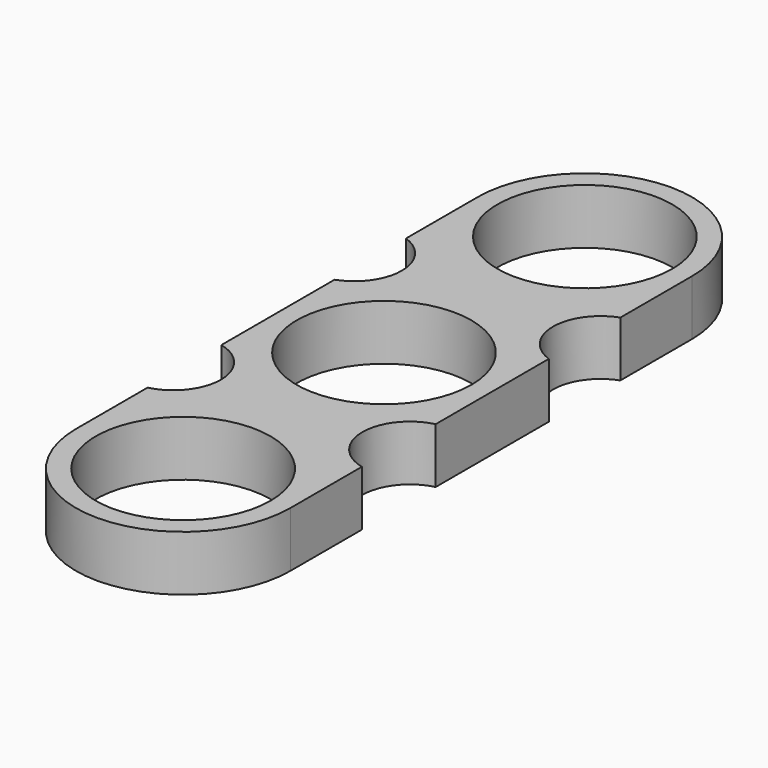
from build123d import *

# Parameters (mm, degrees)
F0_R     = 11.05
F1_DEPTH = 7


with BuildPart() as f1:
    # F0 (on Top) → F1 (new body)
    with BuildSketch(Plane.XY):
        with BuildLine():
            Line((13.55, 20.420315), (13.55, 31.752493))
            ThreePointArc((13.55, 31.752493), (0, 45.302493), (-13.55, 31.752493))
            Line((-13.55, 31.752493), (-13.55, 20.420315))
            ThreePointArc((-13.55, 20.420315), (-9.564712, 14.768684), (-13.55, 9.117053))
            Line((-13.55, 9.117053), (-13.55, -8.768295))
            ThreePointArc((-13.55, -8.768295), (-8.954747, -14.601535), (-13.55, -20.434774))
            Line((-13.55, -20.434774), (-13.55, -31.752493))
            ThreePointArc((-13.55, -31.752493), (0, -45.302493), (13.55, -31.752493))
            Line((13.55, -31.752493), (13.55, -20.434774))
            ThreePointArc((13.55, -20.434774), (8.954747, -14.601535), (13.55, -8.768295))
            Line((13.55, -8.768295), (13.55, 9.117053))
            ThreePointArc((13.55, 9.117053), (9.564712, 14.768684), (13.55, 20.420315))
        make_face()
        with Locations((0, -31.752493)):
            Circle(F0_R, mode=Mode.SUBTRACT)
        Circle(F0_R, mode=Mode.SUBTRACT)
        with Locations((0, 31.752493)):
            Circle(F0_R, mode=Mode.SUBTRACT)
    extrude(amount=F1_DEPTH)


solid = f1.part
